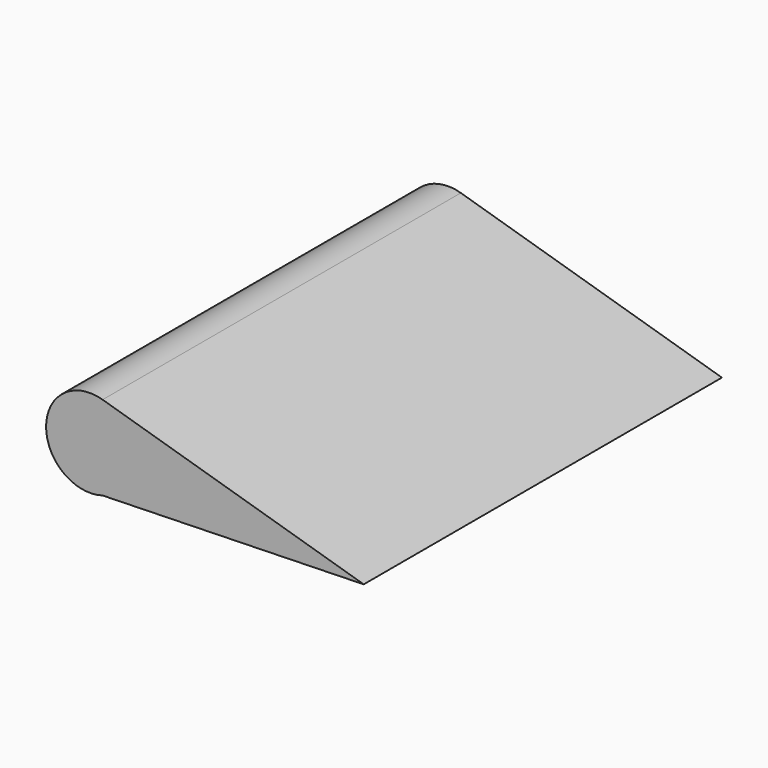
from build123d import *


with BuildPart() as f3:
    # F0 (on Front) → F3 section 0
    with BuildSketch(Plane.XZ):
        with BuildLine():
            Line((90.974494, 17.985154), (2.103703, 44.418516))
            ThreePointArc((2.103703, 44.418516), (-17.143923, 30.062465), (2.103703, 15.706414))
            Line((2.103703, 15.706414), (90.974494, 17.985154))
        make_face()
    # F2 (on offset) → F3 section 1
    with BuildSketch(Plane.XZ.offset(152.4)):
        with BuildLine():
            Line((2.103703, 15.706414), (90.974494, 17.985154))
            Line((90.974494, 17.985154), (2.103703, 44.418516))
            ThreePointArc((2.103703, 44.418516), (-17.143923, 30.062465), (2.103703, 15.706414))
        make_face()
    loft()


solid = f3.part
